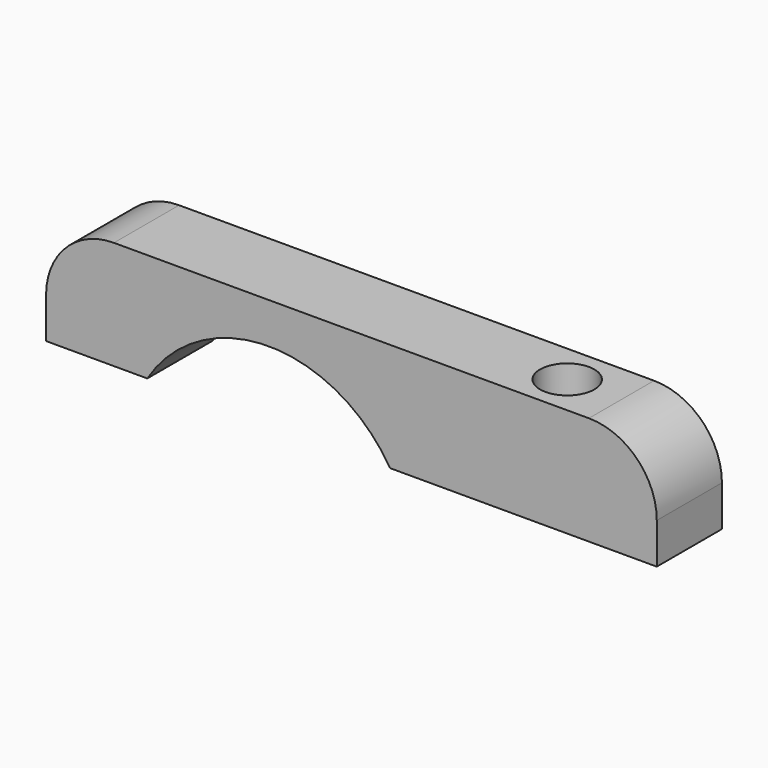
from build123d import *

# Parameters (mm, degrees)
F0_W     = 45
F0_H     = 6
F0_R     = 2
F1_DEPTH = 8
F2_R     = 10.5
F3_DEPTH = 8
F4_R     = 5
F5_R     = 5


with BuildPart() as f1:
    # F0 (on Top) → F1 (new body)
    with BuildSketch(Plane.XY):
        with Locations((0.153442, -3.142335)):
            Rectangle(F0_W, F0_H)
        with Locations((13.653442, -3.142335)):
            Circle(F0_R, mode=Mode.SUBTRACT)
    extrude(amount=F1_DEPTH)

    # F2 (on Front) → F3 (cut)
    with BuildSketch(Plane.XZ):
        with Locations((-5.943397, -5.5)):
            Circle(F2_R)
    extrude(amount=F3_DEPTH, mode=Mode.SUBTRACT)

    # F4
    f4_edges = [f1.edges().sort_by_distance(p)[0] for p in [
        (-22.346558, -3.142335, 8),
    ]]
    fillet(f4_edges, radius=F4_R)

    # F5
    f5_edges = [f1.edges().sort_by_distance(p)[0] for p in [
        (22.653442, -3.142335, 8),
    ]]
    fillet(f5_edges, radius=F5_R)


solid = f1.part
